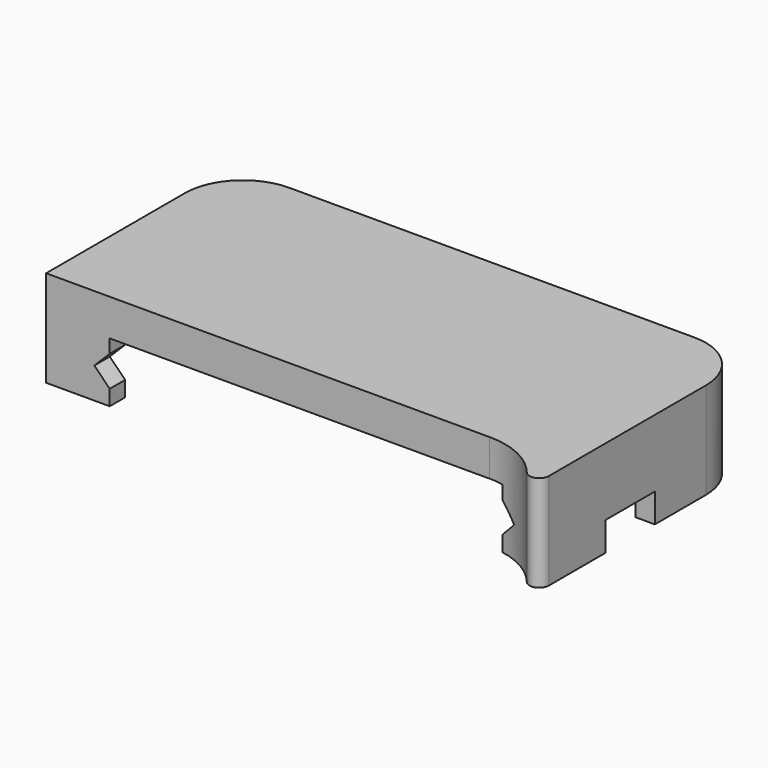
from build123d import *

# Parameters (mm, degrees)
PAD019_DEPTH    = 10
POCKET027_DEPTH = 8
FILLET005_R     = 1
POCKET028_DEPTH = 27.344146
SKETCH089_W     = 2
SKETCH089_H     = 6.4
POCKET031_DEPTH = 3


with BuildPart() as part:
    # Sketch085 (on DatumPlane) → Pad019 (new body)
    with BuildSketch(Plane.XY.offset(18)):
        with BuildLine():
            Line((40, 105.4), (82, 105.4))
            ThreePointArc((88, 99.4), (86.242641, 103.642641), (82, 105.4))
            Line((88, 99.4), (88, 73.4))
            ThreePointArc((88, 73.4), (85.656854, 79.056854), (80, 81.4))
            Line((80, 81.4), (34, 81.4))
            Line((34, 81.4), (34, 99.4))
            ThreePointArc((40, 105.4), (35.757359, 103.642641), (34, 99.4))
        make_face()
    extrude(amount=-PAD019_DEPTH)

    # Sketch083 (on Face8 of Pad019) → Pocket027 (cut)
    with BuildSketch(Plane.XY.offset(16)):
        with BuildLine():
            Line((40, 103.4), (82, 103.4))
            ThreePointArc((86, 99.4), (84.828427, 102.228427), (82, 103.4))
            Line((86, 99.4), (86, 83.4))
            Line((86, 83.4), (36, 83.4))
            Line((36, 83.4), (36, 99.4))
            ThreePointArc((40, 103.4), (37.171573, 102.228427), (36, 99.4))
        make_face()
    extrude(amount=-POCKET027_DEPTH, mode=Mode.SUBTRACT)

    # Fillet005
    fillet005_edges = [part.edges().sort_by_distance(p)[0] for p in [
        (88, 73.4, 13),
    ]]
    fillet(fillet005_edges, radius=FILLET005_R)

    # Sketch086 (on DatumPlane) → Pocket028 (cut, through all)
    with BuildSketch(Plane(origin=(0, 105.4, 18), x_dir=(-1, 0, 0), z_dir=(0, 1, 0))):
        Polygon((-81.4, -3.8), (-40.6, -3.8), (-40.6, -5.2), (-39, -6.8), (-40.6, -8.4), (-40.6, -10), (-81.4, -10), (-81.4, -8.4), (-83, -6.8), (-81.4, -5.2), align=None)
    extrude(amount=-POCKET028_DEPTH, mode=Mode.SUBTRACT)

    # Sketch089 (on DatumPlane) → Pocket031 (cut)
    with BuildSketch(Plane(origin=(0, 0, 8), x_dir=(1, 0, 0), z_dir=(0, 0, -1))):
        with Locations((35, -89.6)):
            Rectangle(SKETCH089_W, SKETCH089_H)
        with Locations((87, -89.6)):
            Rectangle(SKETCH089_W, SKETCH089_H)
    extrude(amount=-POCKET031_DEPTH, mode=Mode.SUBTRACT)


solid = part.part
